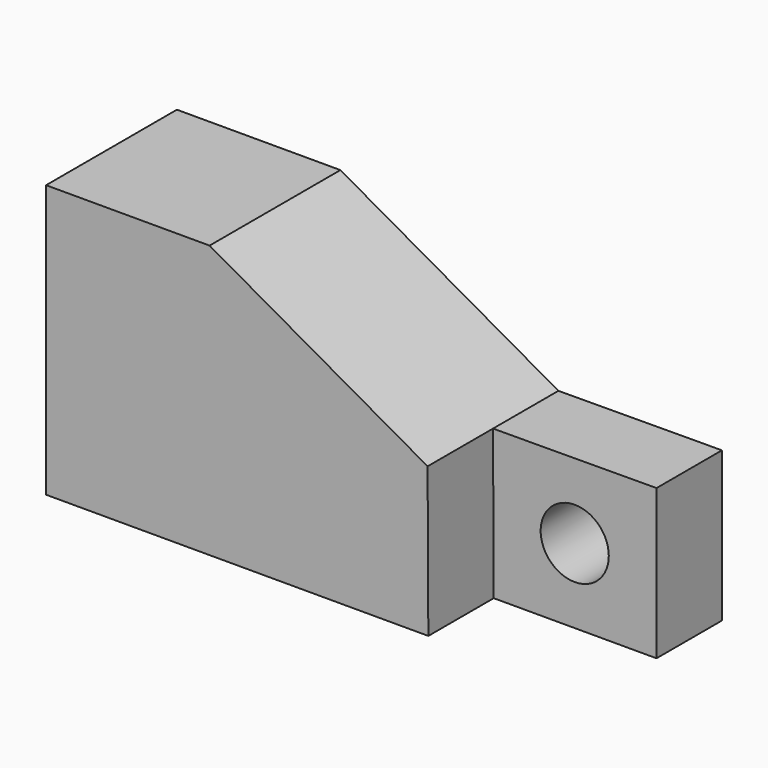
from build123d import *

# Parameters (mm, degrees)
F1_DEPTH = 38.1
F0_R     = 7.9375
F2_DEPTH = 19.05


with BuildPart() as f1:
    # F0 (on Front) → F1 (new body)
    with BuildSketch(Plane.XZ):
        Polygon((-83.092095, 28.758892), (-83.092095, -34.741108), (5.976031, -34.741108), (5.808349, 0), (-44.992095, 28.758892), align=None)
    extrude(amount=F1_DEPTH)

    # F0 (on Front) → F2 (join)
    with BuildSketch(Plane.XZ):
        Polygon((-83.092095, 28.758892), (-83.092095, -34.741108), (5.976031, -34.741108), (5.808349, 0), (-44.992095, 28.758892), align=None)
        Polygon((5.808349, 0), (5.976031, -34.741108), (43.907905, -34.741108), (43.907905, 0.183892), align=None)
        with Locations((24.850078, -17.363214)):
            Circle(F0_R, mode=Mode.SUBTRACT)
    extrude(amount=F2_DEPTH)


solid = f1.part
